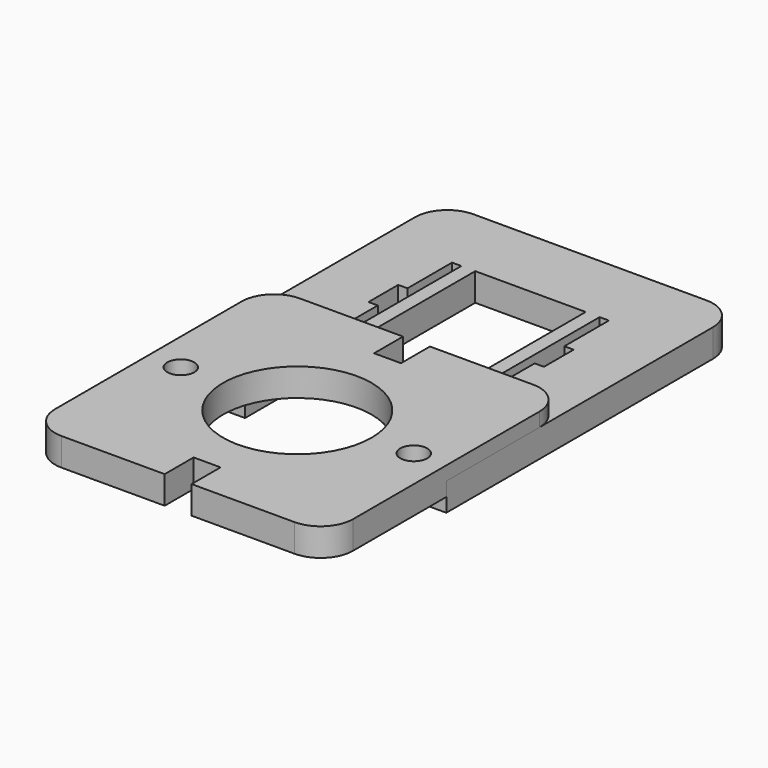
from build123d import *

# Parameters (mm, degrees)
SKETCH_R          = 8
SKETCH_R_2        = 1.45
PAD_DEPTH         = 3
PAD001_DEPTH      = 1.5
PAD001_DEPTH_BACK = 1.5


with BuildPart() as body:
    # Sketch → Pad (new body)
    with BuildSketch(Plane.XY):
        with BuildLine():
            Line((-12.55, 16.05), (-1.45, 16.05))
            Line((-1.45, 12.15), (-1.45, 16.05))
            Line((-1.45, 12.15), (1.45, 12.15))
            Line((1.45, 16.05), (1.45, 12.15))
            Line((1.45, 16.05), (12.55, 16.05))
            ThreePointArc((16.05, 12.55), (15.024874, 15.024874), (12.55, 16.05))
            Line((16.05, 12.55), (16.05, -12.55))
            ThreePointArc((12.55, -16.05), (15.024874, -15.024874), (16.05, -12.55))
            Line((12.55, -16.05), (1.45, -16.05))
            Line((1.45, -16.05), (1.45, -12.15))
            Line((1.45, -12.15), (-1.45, -12.15))
            Line((-1.45, -12.15), (-1.45, -16.05))
            Line((-1.45, -16.05), (-12.55, -16.05))
            ThreePointArc((-16.05, -12.55), (-15.024874, -15.024874), (-12.55, -16.05))
            Line((-16.05, -12.55), (-16.05, 12.55))
            ThreePointArc((-12.55, 16.05), (-15.024874, 15.024874), (-16.05, 12.55))
        make_face()
        Circle(SKETCH_R, mode=Mode.SUBTRACT)
        with Locations((-12.55, 0)):
            Circle(SKETCH_R_2, mode=Mode.SUBTRACT)
        with Locations((12.55, 0)):
            Circle(SKETCH_R_2, mode=Mode.SUBTRACT)
    extrude(amount=PAD_DEPTH)


with BuildPart() as body002:
    # Sketch002 → Pad001 (new body, two sides)
    with BuildSketch(Plane.XY) as pad001_sk:
        with BuildLine():
            Line((-16.05, 0), (-11.95, 0))
            Line((-11.95, 2.9), (-11.95, 0))
            Line((-7.95, 2.9), (-11.95, 2.9))
            Line((-7.95, 11.4), (-7.95, 2.9))
            Line((-5.95, 11.4), (-7.95, 11.4))
            Line((-5.95, 31.4), (-5.95, 11.4))
            Line((5.95, 31.4), (-5.95, 31.4))
            Line((5.95, 11.4), (5.95, 31.4))
            Line((7.95, 11.4), (5.95, 11.4))
            Line((7.95, 2.9), (7.95, 11.4))
            Line((11.95, 2.9), (7.95, 2.9))
            Line((11.95, 0), (11.95, 2.9))
            Line((11.95, 0), (16.05, 0))
            Line((16.05, 0), (16.05, 35.9))
            ThreePointArc((16.05, 35.9), (15.024874, 38.374874), (12.55, 39.4))
            Line((12.55, 39.4), (-12.55, 39.4))
            ThreePointArc((-12.55, 39.4), (-15.024874, 38.374874), (-16.05, 35.9))
            Line((-16.05, 35.9), (-16.05, 0))
        make_face()
        Polygon((-8.45, 31.4), (-7.45, 31.4), (-7.45, 15.4), (-8.45, 15.4), (-8.45, 21.4), (-9.45, 21.4), (-9.45, 25.4), (-8.45, 25.4), align=None, mode=Mode.SUBTRACT)
        Polygon((7.45, 31.4), (8.45, 31.4), (8.45, 25.4), (9.45, 25.4), (9.45, 21.4), (8.45, 21.4), (8.45, 15.4), (7.45, 15.4), align=None, mode=Mode.SUBTRACT)
    extrude(amount=PAD001_DEPTH)
    extrude(pad001_sk.sketch, amount=-PAD001_DEPTH_BACK)


solid = Compound([body.part, body002.part])
